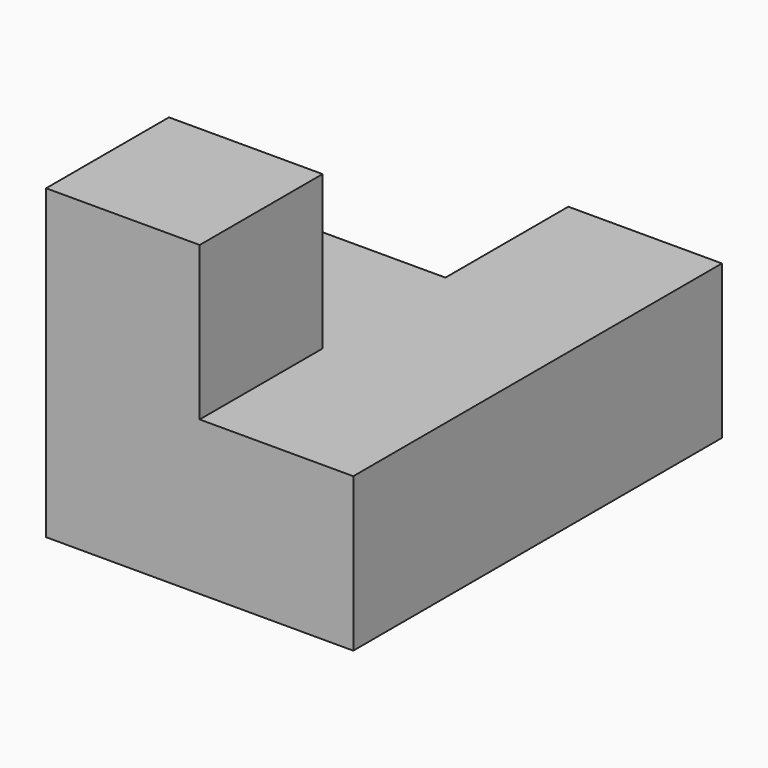
from build123d import *

# Parameters (mm, degrees)
F0_W      = 19.05
F0_H      = 19.05
F1_DEPTH  = 9.525
F1_FACE_W = 19.05
F1_FACE_H = 19.05
F2_DEPTH  = 19.05
F2_FACE_W = 38.1
F2_FACE_H = 19.05
F3_DEPTH  = 19.05
F4_W      = 19.05
F4_H      = 19.05
F5_DEPTH  = 19.05
F6_W      = 19.05
F6_H      = 19.05
F7_DEPTH  = 19.05


with BuildPart() as f1:
    # F0 (on Front) → F1 (new body, symmetric)
    with BuildSketch(Plane.XZ):
        with Locations((1.550582, 0)):
            Rectangle(F0_W, F0_H)
    extrude(amount=F1_DEPTH, both=True)

    # F1_face (on face) → F2 (join)
    with BuildSketch(Plane(origin=(1.550582, -9.525, 0), x_dir=(1, 0, 0), z_dir=(0, -1, 0))):
        Rectangle(F1_FACE_W, F1_FACE_H)
    extrude(amount=F2_DEPTH)

    # F2_face (on face) → F3 (join)
    with BuildSketch(Plane(origin=(11.075582, -9.525, 0), x_dir=(0, 1, 0), z_dir=(1, 0, 0))):
        Rectangle(F2_FACE_W, F2_FACE_H)
    extrude(amount=F3_DEPTH)

    # F4 (on face) → F5 (join)
    with BuildSketch(Plane.XY.offset(9.525)):
        with Locations((1.550582, -19.05)):
            Rectangle(F4_W, F4_H)
    extrude(amount=F5_DEPTH)

    # F6 (on face) → F7 (join)
    with BuildSketch(Plane(origin=(0, 9.525, 0), x_dir=(-1, 0, 0), z_dir=(0, 1, 0))):
        with Locations((-20.600582, 0)):
            Rectangle(F6_W, F6_H)
    extrude(amount=F7_DEPTH)


solid = f1.part
